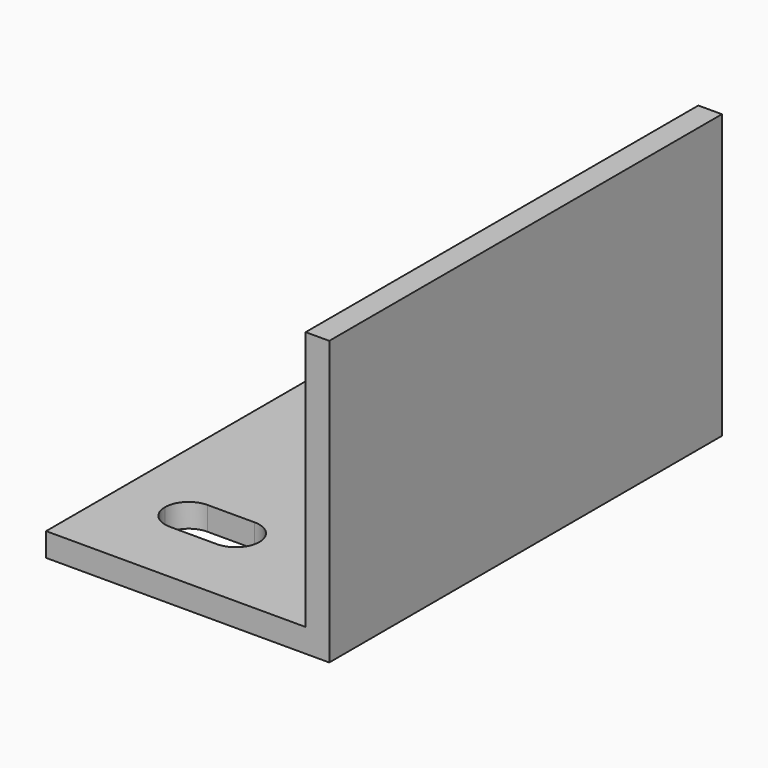
from build123d import *

# Parameters (mm, degrees)
F1_DEPTH = 33.02
F3_DEPTH = 3.175


with BuildPart() as f1:
    # F0 (on Front) → F1 (new body, symmetric)
    with BuildSketch(Plane.XZ):
        Polygon((0, -12.827), (-34.925, -12.827), (-34.925, -16.002), (3.175, -16.002), (3.175, 22.098), (0, 22.098), align=None)
    extrude(amount=F1_DEPTH, both=True)

    # F2 (on face) → F3 (cut, through all)
    with BuildSketch(Plane.XY.offset(-12.827)):
        with BuildLine():
            Line((-25.4, 17.78), (-19.05, 17.78))
            ThreePointArc((-19.05, 17.78), (-16.804936, 18.709936), (-15.875, 20.955))
            ThreePointArc((-15.875, 20.955), (-16.804936, 23.200064), (-19.05, 24.13))
            Line((-19.05, 24.13), (-25.4, 24.13))
            ThreePointArc((-25.4, 24.13), (-27.645064, 23.200064), (-28.575, 20.955))
            ThreePointArc((-28.575, 20.955), (-27.645064, 18.709936), (-25.4, 17.78))
        make_face()
        with BuildLine():
            ThreePointArc((-25.4, -17.78), (-27.645064, -18.709936), (-28.575, -20.955))
            ThreePointArc((-28.575, -20.955), (-27.645064, -23.200064), (-25.4, -24.13))
            Line((-25.4, -24.13), (-19.05, -24.13))
            ThreePointArc((-19.05, -24.13), (-16.804936, -23.200064), (-15.875, -20.955))
            ThreePointArc((-15.875, -20.955), (-16.804936, -18.709936), (-19.05, -17.78))
            Line((-19.05, -17.78), (-25.4, -17.78))
        make_face()
    extrude(amount=-F3_DEPTH, mode=Mode.SUBTRACT)


solid = f1.part
